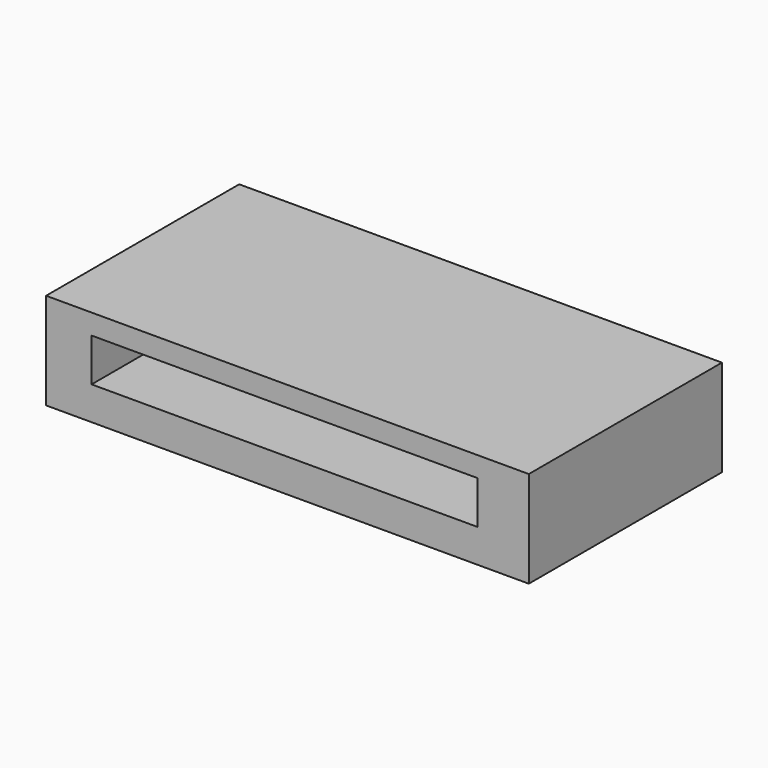
from build123d import *

# Parameters (mm, degrees)
F0_W     = 2000
F0_H     = 425
F0_W_2   = 1598.0344712734
F0_H_2   = 178.1892329454
F1_DEPTH = 1000
F2_DEPTH = 25
F3_R     = 35
F4_DEPTH = 30
F5_R     = 225
F6_DEPTH = 122
F7_SCALE = 0.055


with BuildPart() as f1:
    # F0 (on Front) → F1 (new body)
    with BuildSketch(Plane.XZ):
        with Locations((-1000, 212.5)):
            Rectangle(F0_W, F0_H)
        with Locations((-1012.4687701464, 227.0783409476)):
            Rectangle(F0_W_2, F0_H_2, mode=Mode.SUBTRACT)
    extrude(amount=F1_DEPTH)

    # F2 (cut): a face of the model
    f2_faces = [f1.faces().sort_by_distance(p)[0] for p in [
        (-1000, -500, 425),
    ]]
    extrude(f2_faces, amount=-F2_DEPTH, mode=Mode.SUBTRACT)

    # F3 (on Top) → F4 (cut)
    with BuildSketch(Plane.XY):
        with Locations((-1415, -85)):
            Circle(F3_R)
        with Locations((-1415, -915)):
            Circle(F3_R)
        with Locations((-585, -915)):
            Circle(F3_R)
        with Locations((-585, -90)):
            Circle(F3_R)
    extrude(amount=F4_DEPTH, mode=Mode.SUBTRACT)

    # F5 (on face) → F6 (cut)
    with BuildSketch(Plane(origin=(0, 0, 0), x_dir=(1, 0, 0), z_dir=(0, 0, -1))):
        with Locations((-1000, 500)):
            Circle(F5_R)
    extrude(amount=-F6_DEPTH, mode=Mode.SUBTRACT)


with BuildPart() as f1_1:
    # F7: moved
    add(f1.part.scale(F7_SCALE))


solid = f1_1.part
